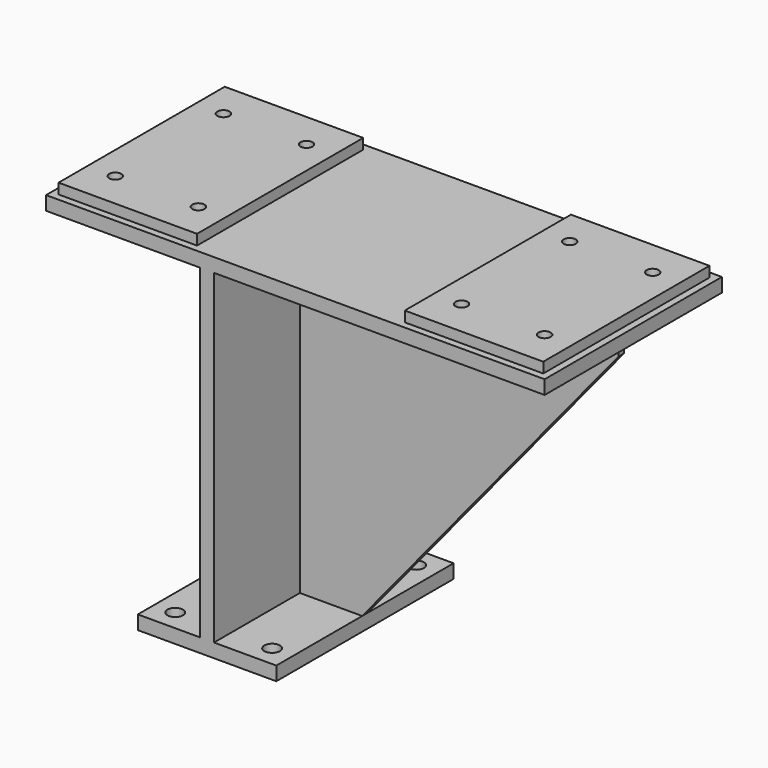
from build123d import *

# Parameters (mm, degrees)
F0_W      = 457.2
F0_H      = 203.2
F1_DEPTH  = 12.7
F2_W      = 127
F2_H      = 190.5
F3_DEPTH  = 9.525
F5_D      = 11.1125
F7_DEPTH  = 3.175
F8_W      = 234.95
F8_H      = 12.7
F8_W_2    = 57.15
F8_H_2    = 285.75
F9_DEPTH  = 3.175
F10_W     = 12.7
F10_H     = 298.45
F11_DEPTH = 101.6
F13_DEPTH = 101.6
F15_D     = 14.2875
F15_DEPTH = 38.1


with BuildPart() as f1:
    # F0 (on Top) → F1 (new body)
    with BuildSketch(Plane.XY):
        Rectangle(F0_W, F0_H)
    extrude(amount=-F1_DEPTH)

    # F2 (on face) → F3 (join)
    with BuildSketch(Plane.XY):
        with Locations((158.75, 0)):
            Rectangle(F2_W, F2_H)
        with Locations((-158.75, 0)):
            Rectangle(F2_W, F2_H)
    extrude(amount=F3_DEPTH)

    # F5 (through all)
    with Locations(Plane.XY.offset(9.525)):
        with Locations((-196.85, 61.976), (-120.65, 61.976), (-196.85, -61.976), (-120.65, -61.976), (120.65, 61.976), (196.85, 61.976), (120.65, -61.976), (196.85, -61.976)):
            Hole(F5_D / 2)

    # F6 (on Front) → F7 (join, symmetric)
    with BuildSketch(Plane.XZ):
        Polygon((-87.3252, -95.25), (-87.3252, -12.7), (-214.3252, -12.7), (-214.3252, -25.4), (-100.0252, -95.25), align=None)
    extrude(amount=F7_DEPTH, both=True)

    # F8 (on Front) → F9 (join, symmetric)
    with BuildSketch(Plane.XZ):
        with Locations((99.9998, -19.05)):
            Rectangle(F8_W, F8_H)
        Polygon((-17.4752, -311.15), (217.4748, -25.4), (-17.4752, -25.4), align=None)
        with Locations((-46.0502, -19.05)):
            Rectangle(F8_W_2, F8_H)
        with Locations((-46.0502, -168.275)):
            Rectangle(F8_W_2, F8_H_2)
    extrude(amount=F9_DEPTH, both=True)

    # F10 (on Front) → F11 (join, symmetric)
    with BuildSketch(Plane.XZ):
        with Locations((-80.9752, -161.925)):
            Rectangle(F10_W, F10_H)
    extrude(amount=F11_DEPTH, both=True)

    # F12 (on Front) → F13 (join, symmetric)
    with BuildSketch(Plane.XZ):
        Polygon((-17.4752, -311.15), (-74.6252, -311.15), (-144.4752, -311.15), (-144.4752, -323.85), (-17.4752, -323.85), align=None)
    extrude(amount=F13_DEPTH, both=True)

    # F15
    with Locations(Plane(origin=(0, 0, -323.85), x_dir=(1, 0, 0), z_dir=(0, 0, -1))):
        with Locations((-125.4252, 82.55), (-125.4252, -82.55), (-36.5252, 82.55), (-36.5252, -82.55)):
            Hole(F15_D / 2, depth=F15_DEPTH)


solid = f1.part
